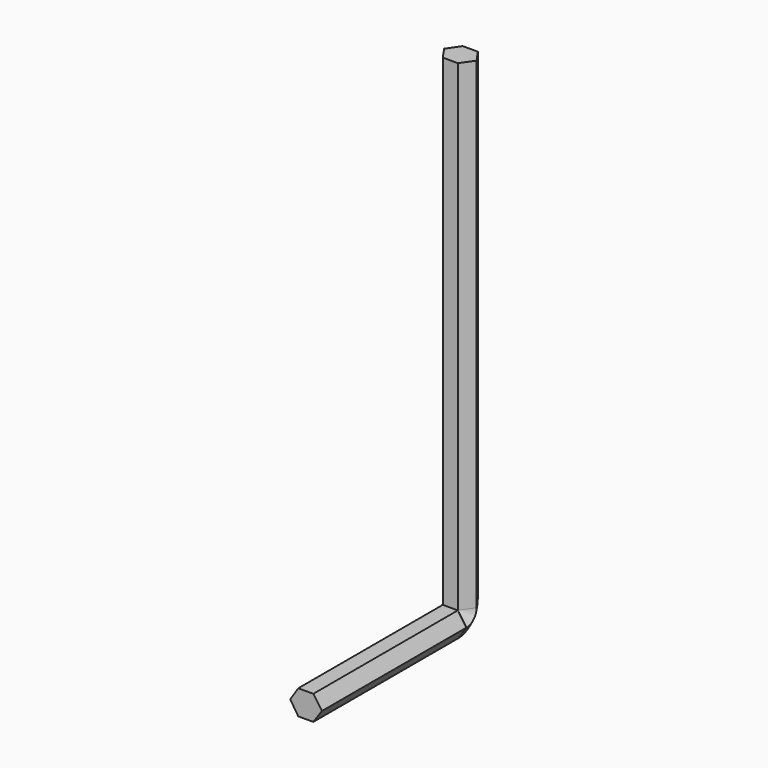
from build123d import *

# Parameters (mm, degrees)
F1_DEPTH = 76.2
F3_ANGLE = 90
F4_DEPTH = 203.2


with BuildPart() as f1:
    # F0 (on Front) → F1 (new body)
    with BuildSketch(Plane.XZ):
        Polygon((-6.5709403187, 0), (-3.175, -5.2222484378), (3.175, -5.2222484378), (6.7875643598, 0), (3.175, 5.2222484378), (-3.175, 5.2222484378), align=None)
    extrude(amount=F1_DEPTH)

    # F2 (on Front) → F3 (revolve)
    with BuildSketch(Plane.XZ):
        Polygon((-3.175, -5.2600912928), (3.175, -5.2600912928), (6.8761393004, 0), (3.175, 5.2600912928), (-3.175, 5.2600912928), (-6.7797889493, 0), align=None)
    revolve(axis=Axis((0, 0, 5.2600912928), (1, 0, 0)), revolution_arc=F3_ANGLE)

    # F4 (add): a face of the model
    f4_faces = [f1.faces().sort_by_distance(p)[0] for p in [
        (0.0270197551, 5.2600912928, 5.2600912928),
    ]]
    extrude(f4_faces, amount=F4_DEPTH)


solid = f1.part
